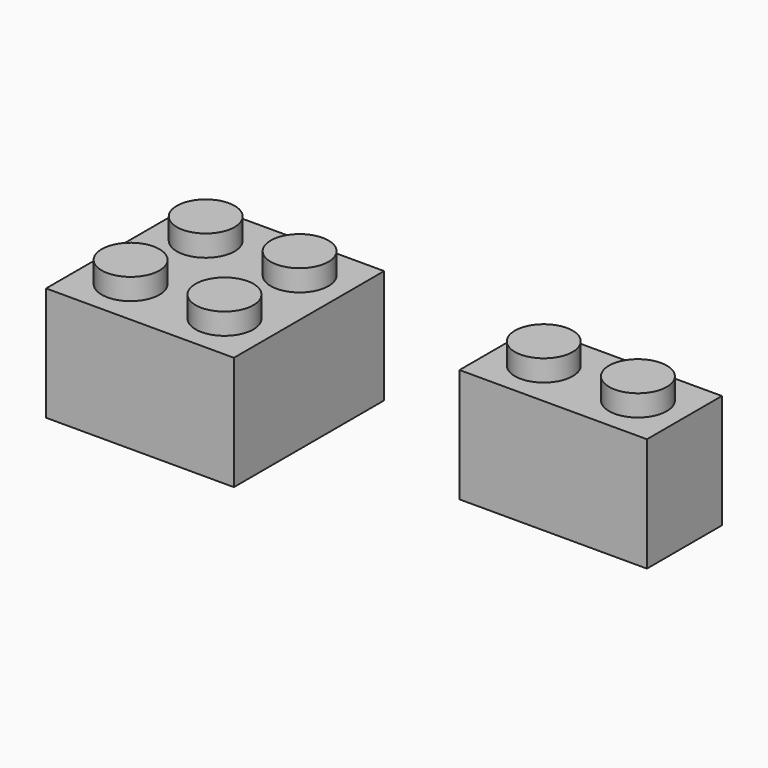
from build123d import *

# Parameters (mm, degrees)
F0_W     = 15.83
F0_H     = 15.83
F0_R     = 2.435
F1_DEPTH = 9.6
F2_DEPTH = 11.4


with BuildPart() as f1:
    # F0 (on Top) → F1 (new body)
    with BuildSketch(Plane.XY):
        Rectangle(F0_W, F0_H)
        with Locations((-3.9575, -3.9575)):
            Circle(F0_R, mode=Mode.SUBTRACT)
        with Locations((3.9575, -3.9575)):
            Circle(F0_R, mode=Mode.SUBTRACT)
        with Locations((-3.9575, 3.9575)):
            Circle(F0_R, mode=Mode.SUBTRACT)
        with Locations((3.9575, 3.9575)):
            Circle(F0_R, mode=Mode.SUBTRACT)
        Polygon((22.097854, 7.9), (20.597854, 7.9), (20.597854, 6.4), (20.597854, 0), (36.397854, 0), (36.397854, 7.9), (30.067854, 7.9), (28.517854, 7.9), (26.967854, 7.9), align=None)
        with Locations((32.482879, 3.944873)):
            Circle(F0_R, mode=Mode.SUBTRACT)
        with Locations((24.532854, 3.965)):
            Circle(F0_R, mode=Mode.SUBTRACT)
    extrude(amount=F1_DEPTH)

    # F0 (on Top) → F2 (join)
    with BuildSketch(Plane.XY):
        with Locations((-3.9575, 3.9575)):
            Circle(F0_R)
        with Locations((3.9575, 3.9575)):
            Circle(F0_R)
        with Locations((3.9575, -3.9575)):
            Circle(F0_R)
        with Locations((24.532854, 3.965)):
            Circle(F0_R)
        with Locations((32.482879, 3.944873)):
            Circle(F0_R)
        with Locations((-3.9575, -3.9575)):
            Circle(F0_R)
    extrude(amount=F2_DEPTH)


solid = f1.part
